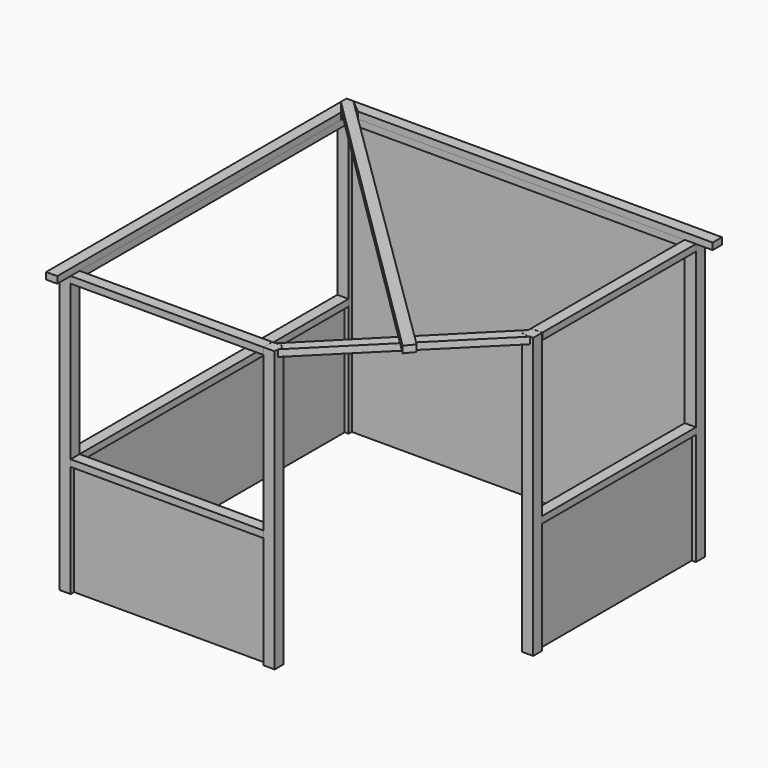
from build123d import *

# Parameters (mm, degrees)
F0_W      = 100
F0_H      = 100
F1_DEPTH  = 2500
F2_W      = 20
F2_H      = 40
F3_DEPTH  = 2440
F4_W      = 40
F4_H      = 20
F5_DEPTH  = 1000
F6_W      = 20
F6_H      = 40
F7_DEPTH  = 1000
F8_W      = 40
F8_H      = 20
F9_DEPTH  = 1000
F10_W     = 3000
F10_H     = 100
F10_W_2   = 100
F10_H_2   = 3000
F10_W_3   = 1720
F10_H_3   = 1715
F11_DEPTH = 60
F12_W     = 1720
F12_H     = 100
F12_W_2   = 100
F12_H_2   = 3000
F12_H_3   = 1715
F13_DEPTH = 60
F15_R     = 5
F16_DEPTH = 2500.001
F17_DEPTH = 60


with BuildPart() as f1:
    # F0 (on Top) → F1 (new body)
    with BuildSketch(Plane.XY):
        with Locations((-163.469012, 1374.304438)):
            Rectangle(F0_W, F0_H)
        with Locations((2936.530988, 1374.304438)):
            Rectangle(F0_W, F0_H)
        with Locations((-163.469012, -1725.695562)):
            Rectangle(F0_W, F0_H)
        with Locations((1656.530988, -1725.695562)):
            Rectangle(F0_W, F0_H)
        with Locations((2936.530988, -440.695562)):
            Rectangle(F0_W, F0_H)
    extrude(amount=F1_DEPTH)

    # F2 (on Top) → F3 (join)
    with BuildSketch(Plane.XY):
        with Locations((-103.607459, 1401.353112)):
            Rectangle(F2_W, F2_H)
        Polygon((-93.607459, 1381.353112), (-113.607459, 1381.353112), (-113.607459, 1360.353112), (2886.392541, 1360.353112), (2886.392541, 1381.353112), (2866.392541, 1381.353112), align=None)
        with Locations((2876.392541, 1401.353112)):
            Rectangle(F2_W, F2_H)
    extrude(amount=F3_DEPTH)

    # F4 (on Top) → F5 (join)
    with BuildSketch(Plane.XY):
        with Locations((-189.787511, 1313.869367)):
            Rectangle(F4_W, F4_H)
        Polygon((-148.787511, 1323.869367), (-169.787511, 1323.869367), (-169.787511, 1303.869367), (-169.787511, -1656.130633), (-169.787511, -1676.130633), (-148.787511, -1676.130633), align=None)
        with Locations((-189.787511, -1666.130633)):
            Rectangle(F4_W, F4_H)
    extrude(amount=F5_DEPTH)

    # F6 (on Top) → F7 (join)
    with BuildSketch(Plane.XY):
        with Locations((-103.705185, -1696.292767)):
            Rectangle(F6_W, F6_H)
        Polygon((-93.705185, -1716.292767), (-113.705185, -1716.292767), (-113.705185, -1737.292767), (1606.294815, -1737.292767), (1606.294815, -1716.292767), (1586.294815, -1716.292767), align=None)
        with Locations((1596.294815, -1696.292767)):
            Rectangle(F6_W, F6_H)
    extrude(amount=F7_DEPTH)

    # F8 (on Top) → F9 (join)
    with BuildSketch(Plane.XY):
        with Locations((2909.500341, 1314.207683)):
            Rectangle(F8_W, F8_H)
        Polygon((2950.500341, 1324.207683), (2929.500341, 1324.207683), (2929.500341, 1304.207683), (2929.500341, -370.792317), (2929.500341, -390.792317), (2950.500341, -390.792317), align=None)
        with Locations((2909.500341, -380.792317)):
            Rectangle(F8_W, F8_H)
    extrude(amount=F9_DEPTH)


with BuildPart() as f11:
    # F10 (on face) → F11 (new body)
    with BuildSketch(Plane.XY.offset(2500)):
        with Locations((1386.530988, 1374.304438)):
            Rectangle(F10_W, F10_H)
        with Locations((-163.624775, -174.968004)):
            Rectangle(F10_W_2, F10_H_2)
        with Locations((746.375225, -1726.276588)):
            Rectangle(F10_W_3, F10_H)
        with Locations((2936.698484, 467.771186)):
            Rectangle(F10_W_2, F10_H_3)
        Polygon((2886.207819, -420.231929), (1637.918642, -1675.116777), (1706.944147, -1675.116777), (1706.944147, -1736.404612), (2956.790513, -491.07036), (2886.207819, -491.07036), align=None)
    extrude(amount=-F11_DEPTH)

    # F15 (on face) → F16 (cut, through all)
    with BuildSketch(Plane.XY.offset(2500)):
        with Locations((2296.575983, -1083.093569)):
            Circle(F15_R)
    extrude(amount=-F16_DEPTH, mode=Mode.SUBTRACT)


with BuildPart() as f13:
    # F12 (on face) → F13 (new body)
    with BuildSketch(Plane.XY.offset(1000)):
        with Locations((746.530988, -1726.292767)):
            Rectangle(F12_W, F12_H)
        with Locations((-163.469012, -176.292767)):
            Rectangle(F12_W_2, F12_H_2)
        with Locations((2937.529612, 466.207233)):
            Rectangle(F12_W_2, F12_H_3)
    extrude(amount=F13_DEPTH)


with BuildPart() as f17:
    # F14 (on face) → F17 (new body)
    with BuildSketch(Plane.XY.offset(2500)):
        Polygon((-113.624775, 1239.30458), (-213.624775, 1364.304438), (-213.624775, -1925.695562), (-113.624775, -1925.695562), align=None)
        Polygon((3136.530988, 1427.156149), (-153.469012, 1427.156149), (-28.469012, 1323.853359), (3136.530988, 1323.853359), align=None)
        Polygon((-213.624775, 1427.156149), (-213.624775, 1364.304438), (2422.280595, -1242.857575), (2485.984104, -1165.774094), (-153.469012, 1427.156149), align=None)
    extrude(amount=F17_DEPTH)


solid = Compound([f1.part, f11.part, f13.part, f17.part])
